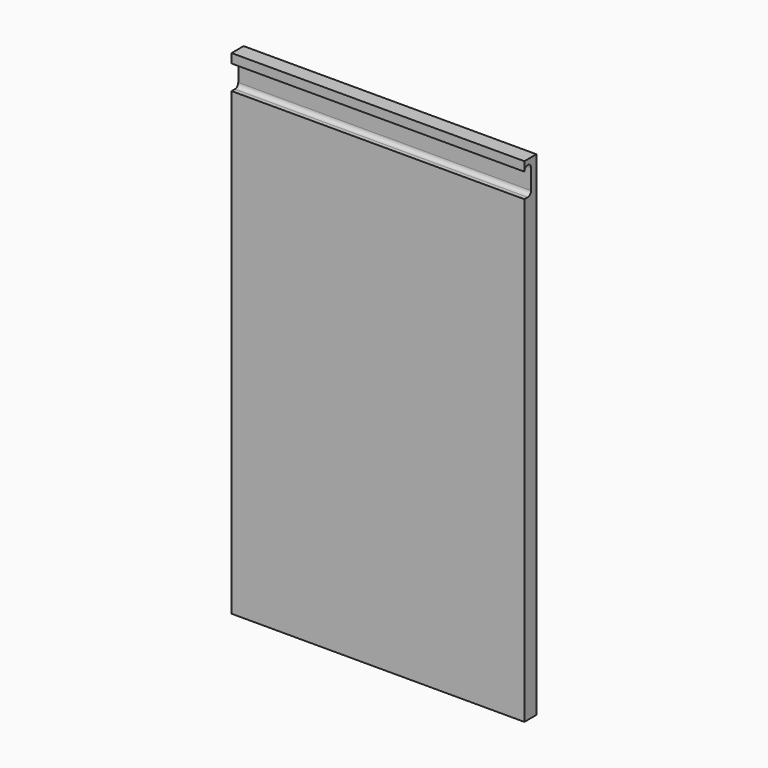
from build123d import *

# Parameters (mm, degrees)
F0_W     = 350
F0_H     = 590
F1_DEPTH = 18
F3_DEPTH = 452


with BuildPart() as f1:
    # F0 (on Front) → F1 (new body)
    with BuildSketch(Plane.XZ):
        with Locations((175, 295)):
            Rectangle(F0_W, F0_H)
    extrude(amount=-F1_DEPTH)

    # F2 (on face) → F3 (cut)
    with BuildSketch(Plane(origin=(0, 0, 0), x_dir=(0, -1, 0), z_dir=(-1, 0, 0))):
        with BuildLine():
            Line((-5, 550), (0, 550))
            Line((0, 550), (0, 579))
            ThreePointArc((0, 579), (-5, 584), (-10, 579))
            Line((-10, 579), (-10, 555))
            ThreePointArc((-10, 555), (-8.535534, 551.464466), (-5, 550))
        make_face()
    extrude(amount=-F3_DEPTH, mode=Mode.SUBTRACT)


solid = f1.part
